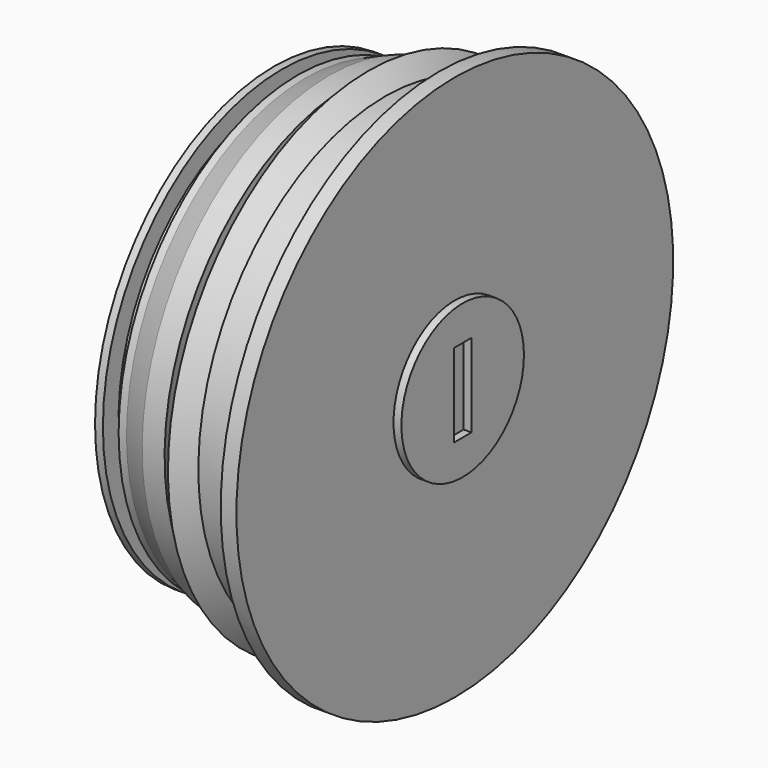
from build123d import *

# Parameters (mm, degrees)
F2_R     = 9.75
F2_W     = 2.8
F2_H     = 10.6
F3_DEPTH = 1


with BuildPart() as f1:
    # F0 (on Front) → F1 (revolve)
    with BuildSketch(Plane.XZ):
        Polygon((0, 28.5), (0, 0), (23, 0), (23, 34.75), (21, 34.75), (21, 29.75), (14.15, 29.75), (12, 31.9), (9.85, 29.75), (7, 29.75), (4, 28.5), (3, 28.5), (3, 26), (1, 26), (1, 28.5), align=None)
    revolve(axis=Axis((0.35, 0, 0), (1, 0, 0)))

    # F2 (on face) → F3 (join)
    with BuildSketch(Plane.YZ.offset(23)):
        Circle(F2_R)
        Rectangle(F2_W, F2_H, mode=Mode.SUBTRACT)
    extrude(amount=F3_DEPTH)


solid = f1.part
